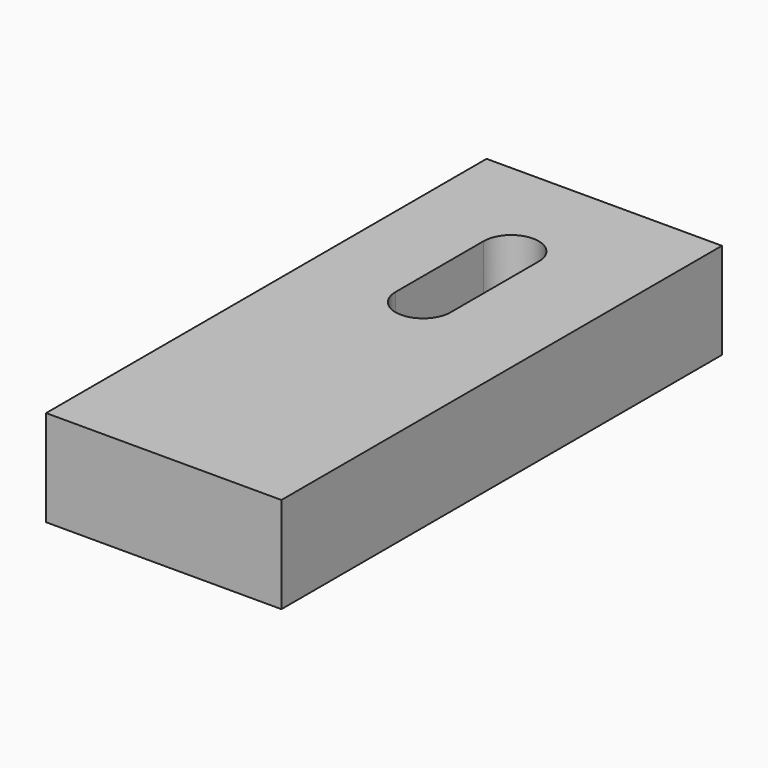
from build123d import *

# Parameters (mm, degrees)
F0_W     = 108.5735373199
F0_H     = 44.3482641131
F1_DEPTH = 254
F3_DEPTH = 76.2


with BuildPart() as f1:
    # F0 (on Front) → F1 (new body)
    with BuildSketch(Plane.XZ):
        with Locations((2.2877622396, -1.4324570075)):
            Rectangle(F0_W, F0_H)
    extrude(amount=F1_DEPTH)

    # F2 (on face) → F3 (cut)
    with BuildSketch(Plane(origin=(0, 0, -23.606589064), x_dir=(1, 0, 0), z_dir=(0, 0, -1))):
        with BuildLine():
            Line((0, 50.8), (-12.7, 50.8))
            ThreePointArc((-12.7, 50.8), (0, 38.1), (12.7, 50.8))
            Line((12.7, 50.8), (0, 50.8))
        make_face()
        with BuildLine():
            Line((-12.7, 101.6), (-12.7, 50.8))
            ThreePointArc((-12.7, 50.8), (-8.9802561211, 59.7802561211), (0, 63.5))
            Line((0, 63.5), (0, 88.9))
            ThreePointArc((0, 88.9), (-8.9802561211, 92.6197438789), (-12.7, 101.6))
        make_face()
        with BuildLine():
            ThreePointArc((0, 63.5), (-8.9802561211, 59.7802561211), (-12.7, 50.8))
            Line((-12.7, 50.8), (0, 50.8))
            Line((0, 50.8), (0, 63.5))
        make_face()
        with BuildLine():
            Line((0, 50.8), (12.7, 50.8))
            ThreePointArc((12.7, 50.8), (8.9802561211, 59.7802561211), (0, 63.5))
            Line((0, 63.5), (0, 50.8))
        make_face()
        with BuildLine():
            ThreePointArc((0, 63.5), (8.9802561211, 59.7802561211), (12.7, 50.8))
            Line((12.7, 50.8), (12.7, 101.6))
            ThreePointArc((12.7, 101.6), (8.9802561211, 92.6197438789), (0, 88.9))
            Line((0, 88.9), (0, 63.5))
        make_face()
        with BuildLine():
            Line((0, 101.6), (-12.7, 101.6))
            ThreePointArc((-12.7, 101.6), (-8.9802561211, 92.6197438789), (0, 88.9))
            Line((0, 88.9), (0, 101.6))
        make_face()
        with BuildLine():
            ThreePointArc((12.7, 101.6), (0, 114.3), (-12.7, 101.6))
            Line((-12.7, 101.6), (0, 101.6))
            Line((0, 101.6), (12.7, 101.6))
        make_face()
        with BuildLine():
            ThreePointArc((0, 88.9), (8.9802561211, 92.6197438789), (12.7, 101.6))
            Line((12.7, 101.6), (0, 101.6))
            Line((0, 101.6), (0, 88.9))
        make_face()
    extrude(amount=-F3_DEPTH, mode=Mode.SUBTRACT)


solid = f1.part
